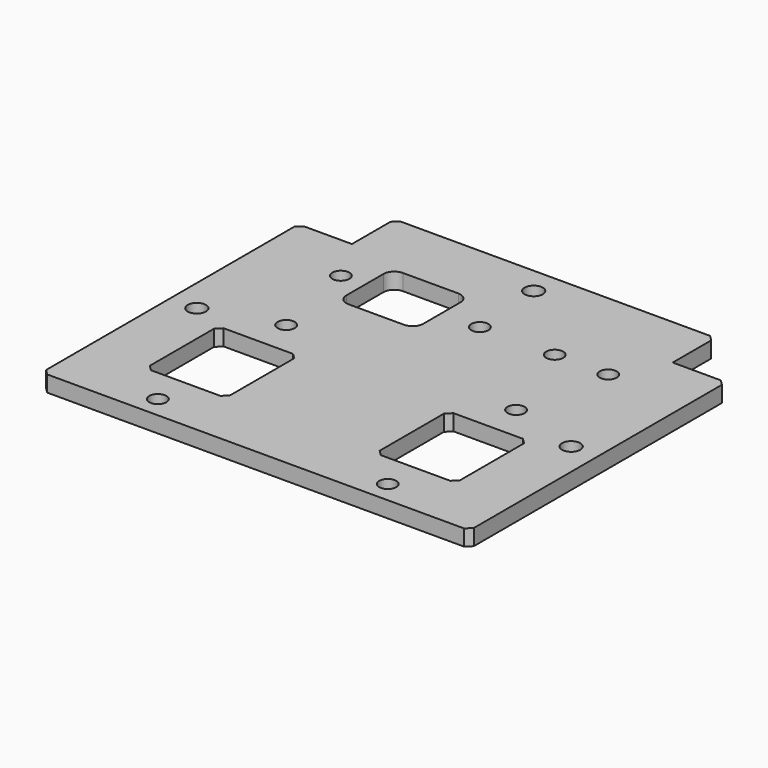
from build123d import *

# Parameters (mm, degrees)
SKETCH152_R     = 1.7
PAD084_DEPTH    = 3
CHAMFER055_SIZE = 1
SKETCH154_R     = 1.6
SKETCH154_W     = 15
SKETCH154_H     = 17
POCKET_DEPTH    = 215.688564
CHAMFER057_SIZE = 1
SKETCH178_R     = 1.6
POCKET024_DEPTH = 3.001


with BuildPart() as part:
    # Sketch152 → Pad084 (new body)
    with BuildSketch(Plane.XY):
        Polygon((40, -30), (-40, -30), (-40, 30), (-30, 30), (-30, 40), (30, 40), (30, 30), (40, 30), align=None)
        with Locations((0, 35)):
            Circle(SKETCH152_R, mode=Mode.SUBTRACT)
        with Locations((-35, 0)):
            Circle(SKETCH152_R, mode=Mode.SUBTRACT)
        with Locations((35, 0)):
            Circle(SKETCH152_R, mode=Mode.SUBTRACT)
    extrude(amount=PAD084_DEPTH)

    # Chamfer055
    chamfer055_edges = [part.edges().sort_by_distance(p)[0] for p in [
        (40, 30, 1.5),
        (30, 40, 1.5),
        (-30, 40, 1.5),
        (-40, 30, 1.5),
        (-40, -30, 1.5),
        (40, -30, 1.5),
    ]]
    chamfer(chamfer055_edges, length=CHAMFER055_SIZE)


with BuildPart() as part_1:
    # Body072 placement: moved
    add(part.part.moved(Location((0, 34.999969, 320.000031))))

    # Sketch154 (on Face5 of Clone) → Pocket (cut, through all)
    with BuildSketch(Plane(origin=(0, 34.999969, 323.000031), x_dir=(1, 0, 0), z_dir=(0, 0, 1))):
        with Locations((-21.5, -26)):
            Circle(SKETCH154_R)
        with Locations((-21.5, 4)):
            Circle(SKETCH154_R)
        with Locations((-21.5, -11)):
            Rectangle(SKETCH154_W, SKETCH154_H)
    pocket = extrude(amount=-POCKET_DEPTH, mode=Mode.SUBTRACT)

    # Mirrored: Pocket across Sketch154 V_Axis
    add(pocket.mirror(Plane(origin=(0, 34.999969, 323.000031), x_dir=(0, 0, 1), z_dir=(1, 0, 0))), mode=Mode.SUBTRACT)

    # Chamfer057
    chamfer057_edges = [part_1.edges().sort_by_distance(p)[0] for p in [
        (29, 15.499969, 321.500031),
        (29, 32.499969, 321.500031),
        (14, 32.499969, 321.500031),
        (14, 15.499969, 321.500031),
        (-14, 15.499969, 321.500031),
        (-29, 15.499969, 321.500031),
        (-29, 32.499969, 321.500031),
        (-14, 32.499969, 321.500031),
    ]]
    chamfer(chamfer057_edges, length=CHAMFER057_SIZE)

    # Sketch178 (on Face39 of Chamfer057) → Pocket024 (cut, through all)
    with BuildSketch(Plane(origin=(0, 34.999969, 323.000031), x_dir=(1, 0, 0), z_dir=(0, 0, 1))):
        with Locations((-25, 21.16)):
            Circle(SKETCH178_R)
        with Locations((25, 21.16)):
            Circle(SKETCH178_R)
        with Locations((15, 21.16)):
            Circle(SKETCH178_R)
        with Locations((1, 21.16)):
            Circle(SKETCH178_R)
        with BuildLine():
            ThreePointArc((-18.491423, 27.506442), (-19.905637, 26.920655), (-20.491423, 25.506442))
            Line((-20.491423, 16.813558), (-20.491423, 25.506442))
            ThreePointArc((-20.491423, 16.813558), (-19.905637, 15.399345), (-18.491423, 14.813558))
            Line((-8.105475, 14.813558), (-18.491423, 14.813558))
            ThreePointArc((-8.105475, 14.813558), (-6.691261, 15.399345), (-6.105475, 16.813558))
            Line((-6.105475, 25.506442), (-6.105475, 16.813558))
            ThreePointArc((-6.105475, 25.506442), (-6.691261, 26.920655), (-8.105475, 27.506442))
            Line((-18.491423, 27.506442), (-8.105475, 27.506442))
        make_face()
    extrude(amount=-POCKET024_DEPTH, mode=Mode.SUBTRACT)


solid = part_1.part
